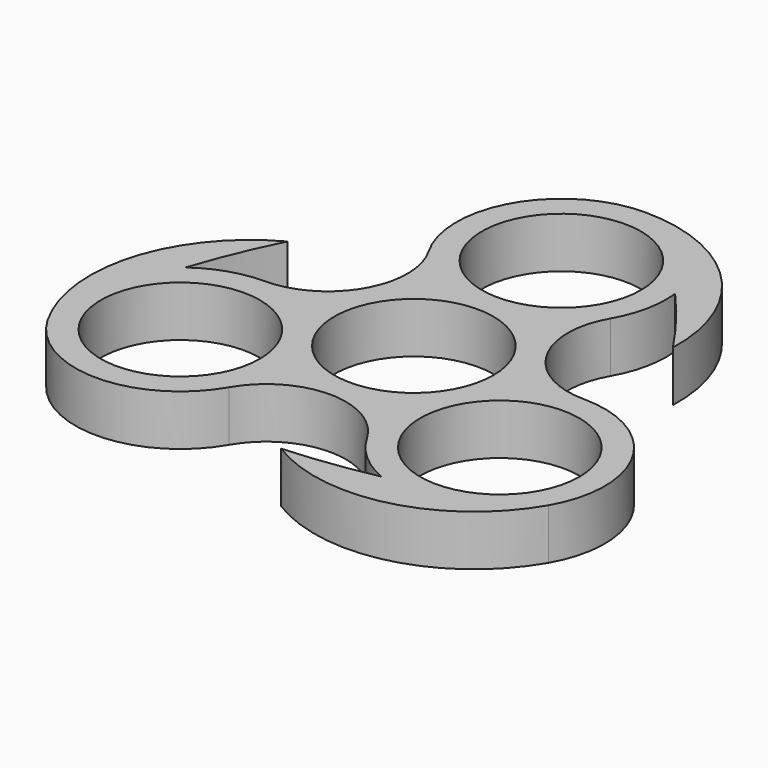
from build123d import *

# Parameters (mm, degrees)
F1_R     = 10.9855
F2_DEPTH = 7


with BuildPart() as f2:
    # F1 (on Top) → F2 (new body)
    with BuildSketch(Plane.XY):
        with BuildLine():
            ThreePointArc((-12.544811, 18.22825), (-12.544811, 7.24275), (-22.058533, 1.75))
            ThreePointArc((-22.058533, 1.75), (-26.596779, 1.020736), (-30.678074, -1.093626))
            ThreePointArc((-30.678074, -1.093626), (-28.490689, 4.807872), (-25.87465, 10.532264))
            ThreePointArc((-25.87465, 10.532264), (-36.709002, -2.872002), (-34.603344, -19.97825))
            ThreePointArc((-34.603344, -19.97825), (-22.058533, -27.221), (-9.513722, -19.97825))
            ThreePointArc((-9.513722, -19.97825), (0, -14.4855), (9.513722, -19.97825))
            ThreePointArc((9.513722, -19.97825), (12.414406, -23.543854), (16.286145, -26.021178))
            ThreePointArc((16.286145, -26.021178), (10.081605, -27.077596), (3.816116, -27.674236))
            ThreePointArc((3.816116, -27.674236), (20.841727, -30.354927), (34.603344, -19.97825))
            ThreePointArc((34.603344, -19.97825), (34.603344, -5.49275), (22.058533, 1.75))
            ThreePointArc((22.058533, 1.75), (12.544811, 7.24275), (12.544811, 18.22825))
            ThreePointArc((12.544811, 18.22825), (14.182373, 22.523118), (14.391929, 27.114804))
            ThreePointArc((14.391929, 27.114804), (18.409084, 22.269725), (22.058533, 17.141972))
            ThreePointArc((22.058533, 17.141972), (15.867274, 33.226929), (0, 39.9565))
            ThreePointArc((0, 39.9565), (-12.544811, 32.71375), (-12.544811, 18.22825))
        make_face()
        with Locations((-22.058533, -12.7355)):
            Circle(F1_R, mode=Mode.SUBTRACT)
        Circle(F1_R, mode=Mode.SUBTRACT)
        with Locations((22.058533, -12.7355)):
            Circle(F1_R, mode=Mode.SUBTRACT)
        with Locations((0, 25.471)):
            Circle(F1_R, mode=Mode.SUBTRACT)
    extrude(amount=F2_DEPTH)


solid = f2.part
